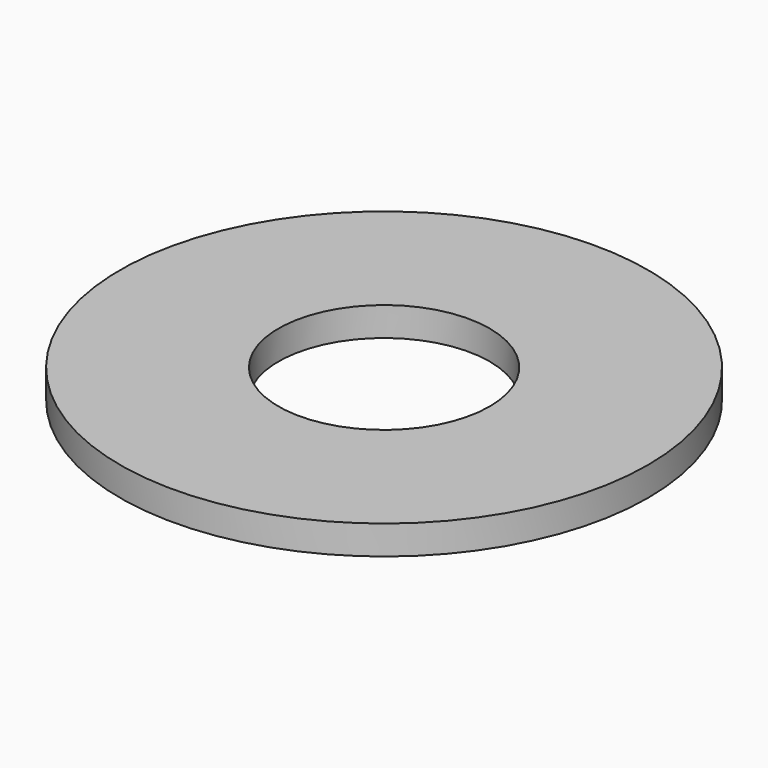
from build123d import *

# Parameters (mm, degrees)
SKETCH_R   = 50
SKETCH_R_2 = 20
PAD_DEPTH  = 5.5


with BuildPart() as part:
    # Sketch → Pad (new body)
    with BuildSketch(Plane.XY):
        Circle(SKETCH_R)
        Circle(SKETCH_R_2, mode=Mode.SUBTRACT)
    extrude(amount=PAD_DEPTH)


solid = part.part
